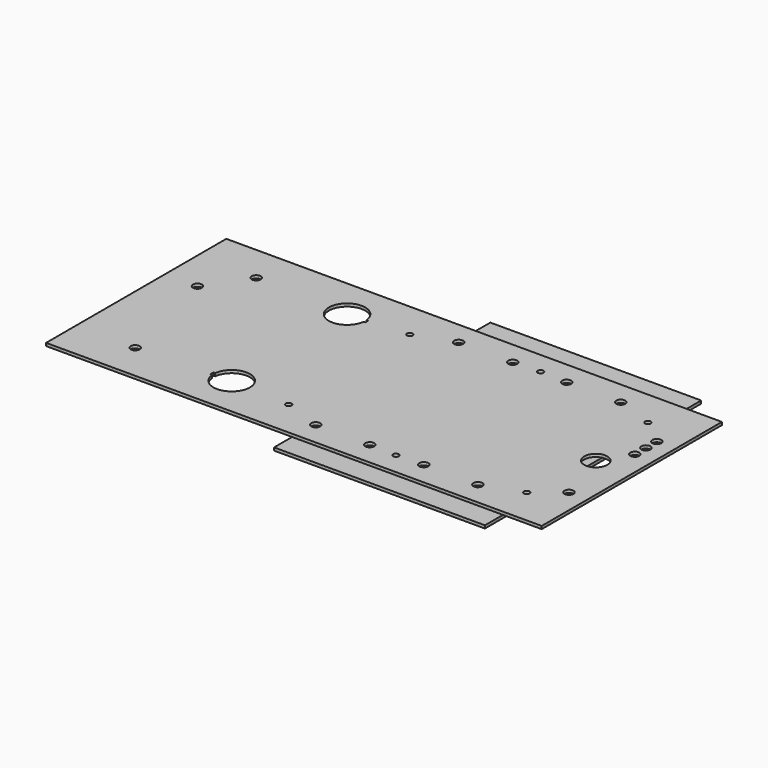
from build123d import *

# Parameters (mm, degrees)
SKETCH004_W      = 117
SKETCH004_H      = 150
SKETCH004_R      = 1.905
SKETCH004_W_2    = 72
SKETCH004_H_2    = 40
EXTRUDE_DEPTH    = 1.6
SKETCH002_W      = 275
SKETCH002_H      = 125
SKETCH002_R      = 6.4135
SKETCH002_R_2    = 1.5875
SKETCH002_R_3    = 2.5
EXTRUDE001_DEPTH = 1.6


with BuildPart() as extrude_stacked_duplex_outlets:
    # Sketch004 → Extrude (new body)
    with BuildSketch(Plane(origin=(-60, 0, 0), x_dir=(1, 0, 0), z_dir=(0, 0, 1))):
        Rectangle(SKETCH004_W, SKETCH004_H)
        with Locations((-41.656, 38.5)):
            Circle(SKETCH004_R, mode=Mode.SUBTRACT)
        with Locations((41.656, 38.5)):
            Circle(SKETCH004_R, mode=Mode.SUBTRACT)
        with Locations((-41.656, -38.5)):
            Circle(SKETCH004_R, mode=Mode.SUBTRACT)
        with Locations((41.656, -38.5)):
            Circle(SKETCH004_R, mode=Mode.SUBTRACT)
        with Locations((0, 38.5)):
            Rectangle(SKETCH004_W_2, SKETCH004_H_2, mode=Mode.SUBTRACT)
        with Locations((0, -38.5)):
            Rectangle(SKETCH004_W_2, SKETCH004_H_2, mode=Mode.SUBTRACT)
    extrude(amount=-EXTRUDE_DEPTH)


with BuildPart() as extrude_top:
    # Sketch002 → Extrude001 (new body)
    with BuildSketch(Plane.XY):
        with Locations((-117.5, 0)):
            Rectangle(SKETCH002_W, SKETCH002_H)
        Circle(SKETCH002_R, mode=Mode.SUBTRACT)
        with Locations((-136.779, 42.037)):
            Circle(SKETCH002_R_2, mode=Mode.SUBTRACT)
        with Locations((-136.779, -42.037)):
            Circle(SKETCH002_R_2, mode=Mode.SUBTRACT)
        with Locations((-4.699, 42.037)):
            Circle(SKETCH002_R_2, mode=Mode.SUBTRACT)
        with Locations((-4.699, -42.037)):
            Circle(SKETCH002_R_2, mode=Mode.SUBTRACT)
        with Locations((-70.739, 50.165)):
            Circle(SKETCH002_R_2, mode=Mode.SUBTRACT)
        with Locations((-70.739, -50.165)):
            Circle(SKETCH002_R_2, mode=Mode.SUBTRACT)
        with Locations((9.525, 30.48)):
            Circle(SKETCH002_R_3, mode=Mode.SUBTRACT)
        with Locations((9.525, 22.86)):
            Circle(SKETCH002_R_3, mode=Mode.SUBTRACT)
        with Locations((9.525, 15.24)):
            Circle(SKETCH002_R_3, mode=Mode.SUBTRACT)
        with Locations((9.525, -30.48)):
            Circle(SKETCH002_R_3, mode=Mode.SUBTRACT)
        with Locations((-25.781, 49.53)):
            Circle(SKETCH002_R_3, mode=Mode.SUBTRACT)
        with Locations((-115.697, 49.53)):
            Circle(SKETCH002_R_3, mode=Mode.SUBTRACT)
        with Locations((-85.725, 49.53)):
            Circle(SKETCH002_R_3, mode=Mode.SUBTRACT)
        with Locations((-55.753, 49.53)):
            Circle(SKETCH002_R_3, mode=Mode.SUBTRACT)
        with Locations((-115.697, -49.53)):
            Circle(SKETCH002_R_3, mode=Mode.SUBTRACT)
        with Locations((-85.725, -49.53)):
            Circle(SKETCH002_R_3, mode=Mode.SUBTRACT)
        with Locations((-55.753, -49.53)):
            Circle(SKETCH002_R_3, mode=Mode.SUBTRACT)
        with Locations((-25.781, -49.53)):
            Circle(SKETCH002_R_3, mode=Mode.SUBTRACT)
        with Locations((-222, 42)):
            Circle(SKETCH002_R_3, mode=Mode.SUBTRACT)
        with Locations((-222, -42)):
            Circle(SKETCH002_R_3, mode=Mode.SUBTRACT)
        with Locations((-237, 20)):
            Circle(SKETCH002_R_3, mode=Mode.SUBTRACT)
        with BuildLine():
            Line((-159, 41.1), (-159, 38.9))
            Line((-159, 38.9), (-159.96008, 38.9))
            ThreePointArc((-159.96008, 41.1), (-180.1, 40), (-159.96008, 38.9))
            Line((-159, 41.1), (-159.96008, 41.1))
        make_face(mode=Mode.SUBTRACT)
        with BuildLine():
            Line((-181, -38.9), (-181, -41.1))
            Line((-181, -41.1), (-180.03992, -41.1))
            ThreePointArc((-180.03992, -41.1), (-159.9, -40), (-180.03992, -38.9))
            Line((-181, -38.9), (-180.03992, -38.9))
        make_face(mode=Mode.SUBTRACT)
    extrude(amount=EXTRUDE001_DEPTH)


solid = Compound([extrude_stacked_duplex_outlets.part, extrude_top.part])
